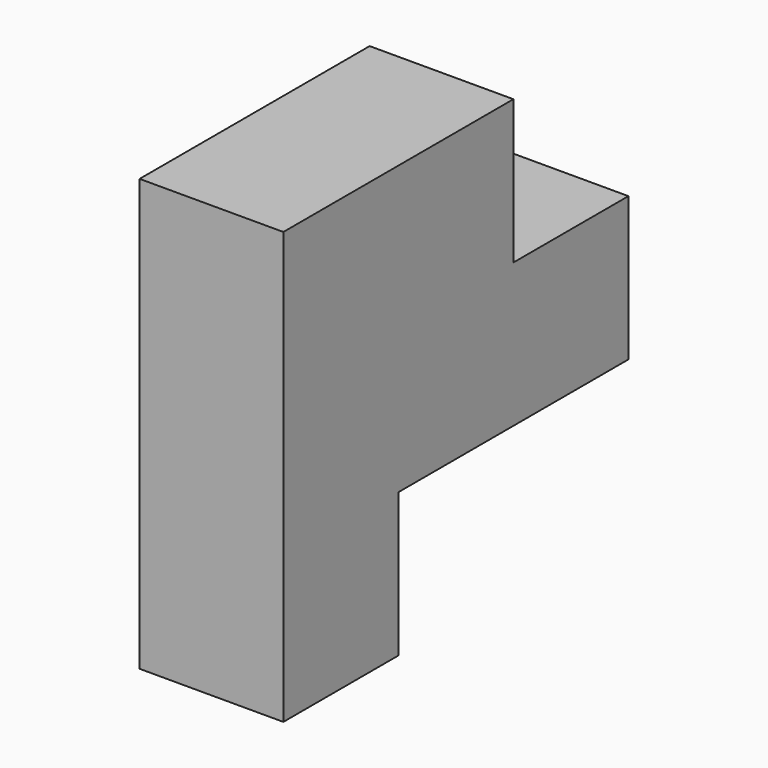
from build123d import *

# Parameters (mm, degrees)
F0_W     = 19.05
F0_H     = 57.15
F1_DEPTH = 57.15
F2_W     = 19.05
F2_H     = 19.05
F3_DEPTH = 38.1
F4_W     = 19.05
F4_H     = 19.05
F5_DEPTH = 19.05


with BuildPart() as f1:
    # F0 (on Top) → F1 (new body)
    with BuildSketch(Plane.XY):
        with Locations((9.525, 28.575)):
            Rectangle(F0_W, F0_H)
    extrude(amount=F1_DEPTH)

    # F2 (on face) → F3 (cut)
    with BuildSketch(Plane(origin=(0, 57.15, 0), x_dir=(-1, 0, 0), z_dir=(0, 1, 0))):
        with Locations((-9.525, 9.525)):
            Rectangle(F2_W, F2_H)
    extrude(amount=-F3_DEPTH, mode=Mode.SUBTRACT)

    # F4 (on face) → F5 (cut)
    with BuildSketch(Plane(origin=(0, 57.15, 0), x_dir=(-1, 0, 0), z_dir=(0, 1, 0))):
        with Locations((-9.525, 47.625)):
            Rectangle(F4_W, F4_H)
    extrude(amount=-F5_DEPTH, mode=Mode.SUBTRACT)


solid = f1.part
